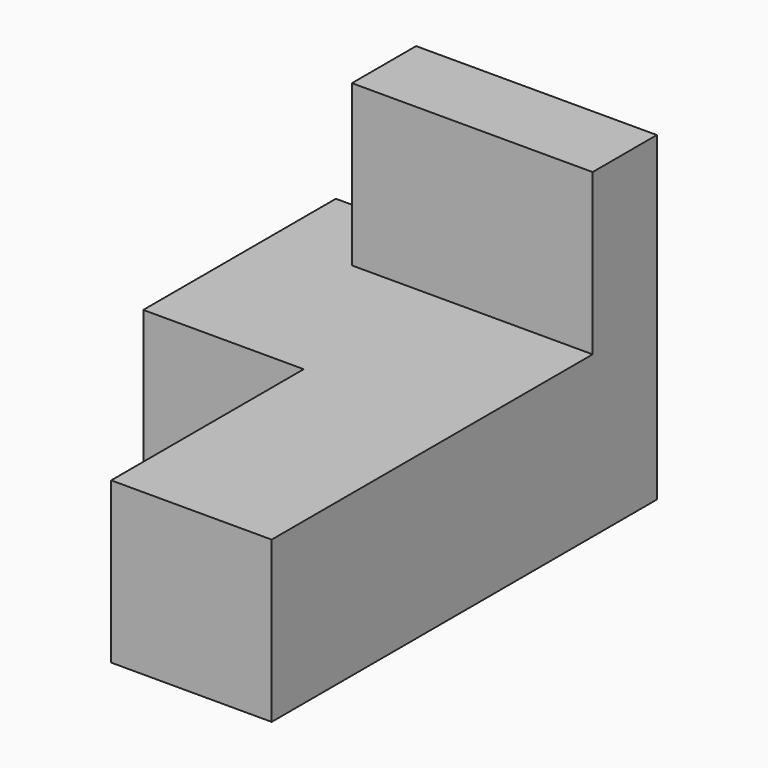
from build123d import *

# Parameters (mm, degrees)
F1_DEPTH = 12.7
F3_START = 6.35
F2_W     = 6.35
F2_H     = 12.7
F3_DEPTH = 19.05


with BuildPart() as f1:
    # F0 (on Top) → F1 (new body)
    with BuildSketch(Plane.XY):
        Polygon((25.4, 0), (0, 0), (0, -19.05), (12.7, -19.05), (12.7, -38.1), (25.4, -38.1), align=None)
    extrude(amount=-F1_DEPTH)

    # F2 (on Right) → F3 (join)
    with BuildSketch(Plane.YZ.offset(F3_START)):
        with Locations((-3.175, 6.35)):
            Rectangle(F2_W, F2_H)
    extrude(amount=F3_DEPTH)


solid = f1.part
